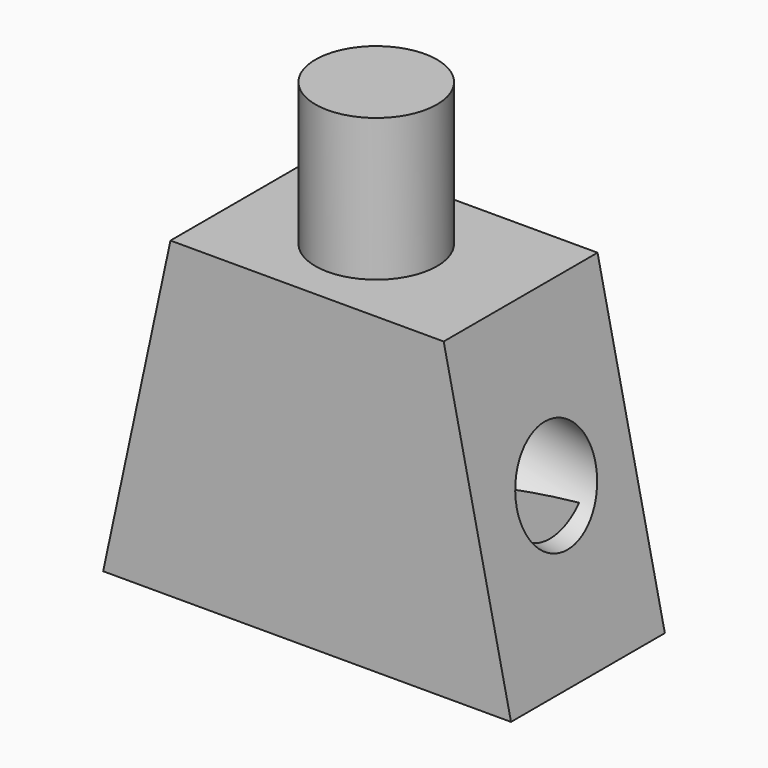
from build123d import *

# Parameters (mm, degrees)
F1_DEPTH = 7.7
F2_R     = 1.97
F3_DEPTH = 25
F4_R     = 2.435
F5_DEPTH = 5.7
F7_DEPTH = 5


with BuildPart() as f1:
    # F0 (on Front) → F1 (new body)
    with BuildSketch(Plane.XZ):
        Polygon((-30.294312, 48.087149), (-41.234312, 48.087149), (-43.929312, 35.553619), (-27.599312, 35.553619), align=None)
    extrude(amount=F1_DEPTH)

    # F2 (on face) → F3 (cut)
    with BuildSketch(Plane(origin=(-49.295012, 0, 10.599572), x_dir=(0, -1, 0), z_dir=(-0.977654, 0, 0.210218))):
        with Locations((3.75, 34.817591)):
            Circle(F2_R)
    extrude(amount=-F3_DEPTH, mode=Mode.SUBTRACT)

    # F4 (on face) → F5 (join)
    with BuildSketch(Plane.XY.offset(48.087149)):
        with Locations((-36.07548, -3.85)):
            Circle(F4_R)
    extrude(amount=F5_DEPTH)

    # F6 (on face) → F7 (cut)
    with BuildSketch(Plane(origin=(0, 0, 35.553619), x_dir=(1, 0, 0), z_dir=(0, 0, -1))):
        Polygon((-37.525672, 2.131142), (-37.894156, 1.61), (-37.184659, 1.61), (-37.184659, 2.131142), align=None)
        Polygon((-34.179285, 2.131142), (-34.179285, 1.61), (-33.376172, 1.61), (-33.782143, 2.131142), align=None)
        Polygon((-37.184659, 6.09), (-37.894156, 6.09), (-37.525672, 5.577996), (-37.184659, 5.577996), align=None)
        Polygon((-33.376172, 6.09), (-34.179285, 6.09), (-34.179285, 5.577996), (-33.782143, 5.577996), align=None)
        Polygon((-37.894156, 6.09), (-42.319312, 6.09), (-42.319312, 1.61), (-37.894156, 1.61), (-37.525672, 2.131142), (-37.184659, 2.131142), (-37.184659, 1.61), (-34.179285, 1.61), (-34.179285, 2.131142), (-33.782143, 2.131142), (-33.376172, 1.61), (-29.209312, 1.61), (-29.209312, 6.09), (-33.376172, 6.09), (-33.782143, 5.577996), (-34.179285, 5.577996), (-34.179285, 6.09), (-37.184659, 6.09), (-37.184659, 5.577996), (-37.525672, 5.577996), align=None)
    extrude(amount=-F7_DEPTH, mode=Mode.SUBTRACT)


solid = f1.part
